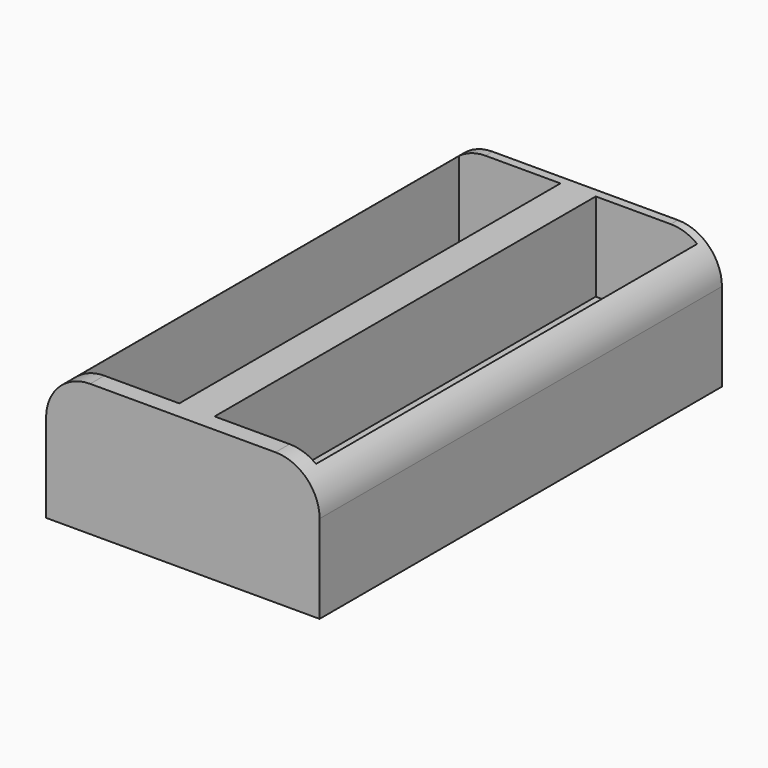
from build123d import *

# Parameters (mm, degrees)
F0_W     = 31
F0_H     = 57
F1_DEPTH = 15
F2_R     = 5
F3_W     = 11.5
F3_H     = 54
F4_DEPTH = 10


with BuildPart() as f1:
    # F0 (on Top) → F1 (new body)
    with BuildSketch(Plane.XY):
        Rectangle(F0_W, F0_H)
    extrude(amount=F1_DEPTH)

    # F2
    f2_edges = [f1.edges().sort_by_distance(p)[0] for p in [
        (15.5, 0, 15),
        (-15.5, 0, 15),
    ]]
    fillet(f2_edges, radius=F2_R)

    # F3 (on face) → F4 (cut)
    with BuildSketch(Plane.XY.offset(15)):
        with Locations((7.75, 0.5)):
            Rectangle(F3_W, F3_H)
        with Locations((-7.75, 0.5)):
            Rectangle(F3_W, F3_H)
    extrude(amount=-F4_DEPTH, mode=Mode.SUBTRACT)


solid = f1.part
